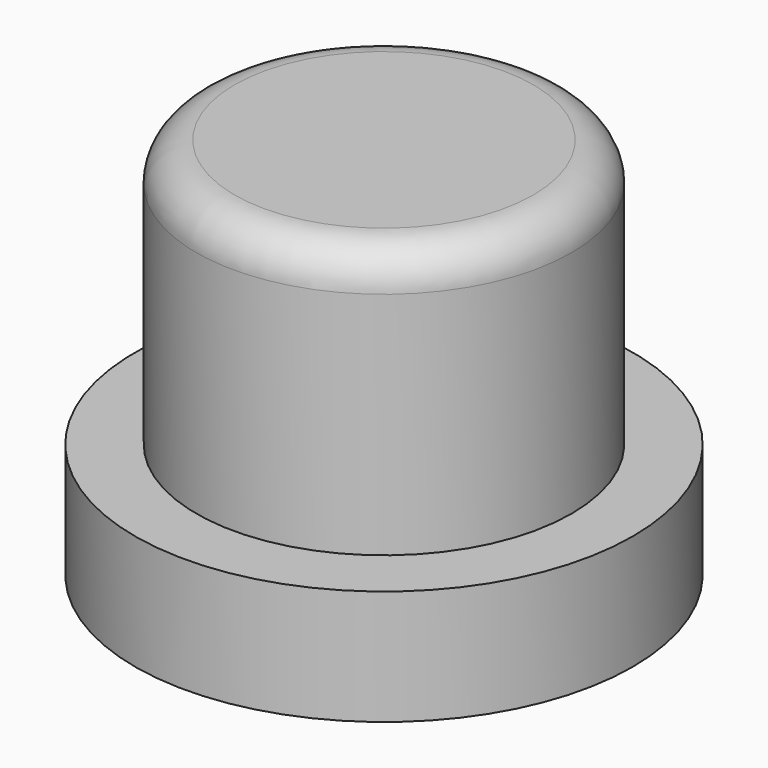
from build123d import *

# Parameters (mm, degrees)
F0_R     = 6.5
F1_DEPTH = 3
F2_R     = 4.9
F3_DEPTH = 10
F4_R     = 1


with BuildPart() as f1:
    # F0 (on Top) → F1 (new body)
    with BuildSketch(Plane.XY):
        Circle(F0_R)
    extrude(amount=F1_DEPTH)

    # F2 (on Top) → F3 (join)
    with BuildSketch(Plane.XY):
        Circle(F2_R)
    extrude(amount=F3_DEPTH)

    # F4
    f4_edges = [f1.edges().sort_by_distance(p)[0] for p in [
        (-4.9, 0, 10),
    ]]
    fillet(f4_edges, radius=F4_R)


solid = f1.part
